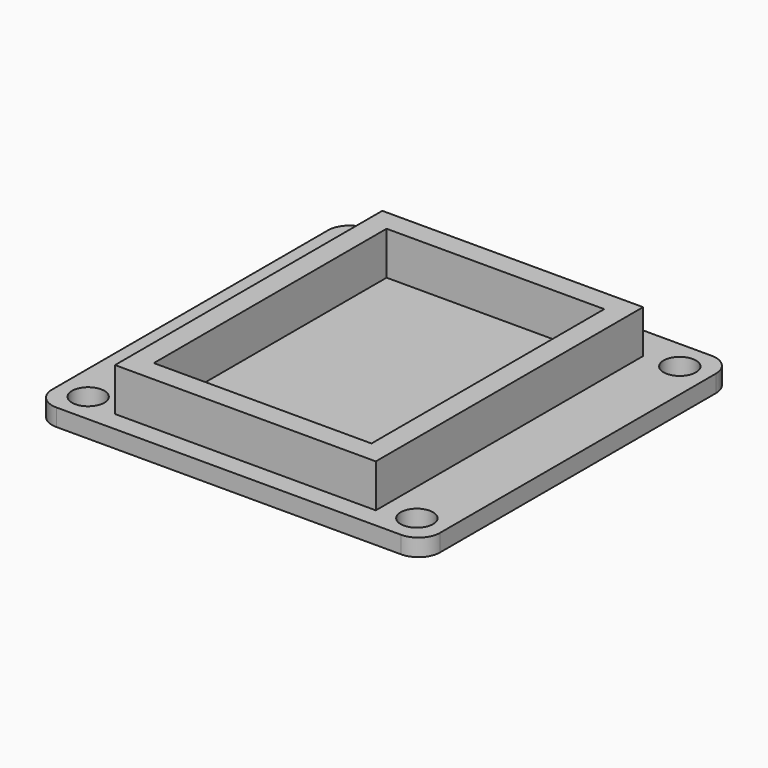
from build123d import *

# Parameters (mm, degrees)
F0_R     = 1.5
F1_DEPTH = 1.6
F2_W     = 24.2
F2_H     = 31
F2_W_2   = 20.2
F2_H_2   = 27
F3_DEPTH = 4


with BuildPart() as f1:
    # F0 (on Top) → F1 (new body)
    with BuildSketch(Plane.XY):
        with BuildLine():
            ThreePointArc((-15.998648, 22.949437), (-17.412861, 22.36365), (-17.998648, 20.949437))
            Line((-17.998648, 20.949437), (-17.998648, -11.050563))
            ThreePointArc((-17.998648, -11.050563), (-17.412861, -12.464777), (-15.998648, -13.050563))
            Line((-15.998648, -13.050563), (16.001352, -13.050563))
            ThreePointArc((16.001352, -13.050563), (17.415566, -12.464777), (18.001352, -11.050563))
            Line((18.001352, -11.050563), (18.001352, 20.949437))
            ThreePointArc((18.001352, 20.949437), (17.415566, 22.36365), (16.001352, 22.949437))
            Line((16.001352, 22.949437), (-15.998648, 22.949437))
        make_face()
        with Locations((-15.248648, -10.300563)):
            Circle(F0_R, mode=Mode.SUBTRACT)
        with Locations((15.251352, -10.300563)):
            Circle(F0_R, mode=Mode.SUBTRACT)
        with Locations((-15.248648, 20.199437)):
            Circle(F0_R, mode=Mode.SUBTRACT)
        with Locations((15.251352, 20.199437)):
            Circle(F0_R, mode=Mode.SUBTRACT)
    extrude(amount=F1_DEPTH)

    # F2 (on face) → F3 (join)
    with BuildSketch(Plane.XY.offset(1.6)):
        with Locations((0.061713, 4.298806)):
            Rectangle(F2_W, F2_H)
        with Locations((0.061713, 4.298806)):
            Rectangle(F2_W_2, F2_H_2, mode=Mode.SUBTRACT)
    extrude(amount=F3_DEPTH)


solid = f1.part
